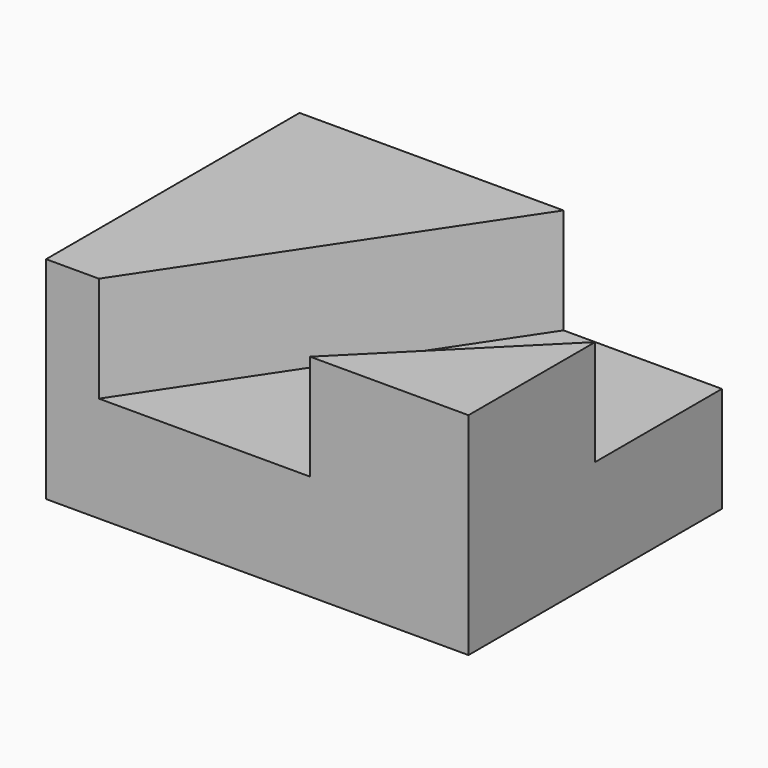
from build123d import *

# Parameters (mm, degrees)
F0_W     = 50.8
F0_H     = 38.1
F1_DEPTH = 25.4
F3_DEPTH = 12.7


with BuildPart() as f1:
    # F0 (on Top) → F1 (new body)
    with BuildSketch(Plane.XY):
        with Locations((-46.099308, 44.511195)):
            Rectangle(F0_W, F0_H)
    extrude(amount=F1_DEPTH)

    # F2 (on face) → F3 (cut)
    with BuildSketch(Plane.XY.offset(25.4)):
        Polygon((-20.699308, 63.561195), (-39.749308, 63.561195), (-65.149308, 25.461195), (-39.749308, 25.461195), (-20.699308, 44.511195), align=None)
    extrude(amount=-F3_DEPTH, mode=Mode.SUBTRACT)


solid = f1.part
